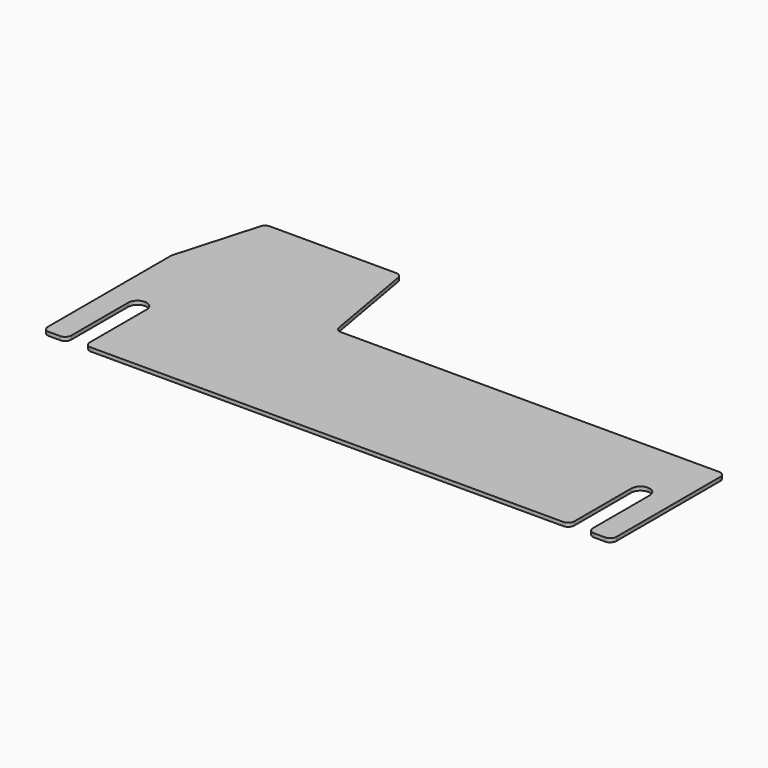
from build123d import *

# Parameters (mm, degrees)
F1_DEPTH = 3
F2_R     = 5


with BuildPart() as f1:
    # F0 (on Top) → F1 (new body)
    with BuildSketch(Plane.XY):
        with BuildLine():
            Line((-100, 200), (-210, 200))
            Line((-210, 200), (-230, 130))
            Line((-230, 130), (-230, 0))
            Line((-230, 0), (-211, 0))
            Line((-211, 0), (-211, 62.5))
            ThreePointArc((-211, 62.5), (-208.803301, 67.803301), (-203.5, 70))
            ThreePointArc((-203.5, 70), (-198.196699, 67.803301), (-196, 62.5))
            Line((-196, 62.5), (-196, 0))
            Line((-196, 0), (196, 0))
            Line((196, 0), (196, 62.5))
            ThreePointArc((196, 62.5), (198.196699, 67.803301), (203.5, 70))
            ThreePointArc((203.5, 70), (208.803301, 67.803301), (211, 62.5))
            Line((211, 62.5), (211, 0))
            Line((211, 0), (230, 0))
            Line((230, 0), (230, 115))
            Line((230, 115), (-85, 115))
            Line((-85, 115), (-100, 200))
        make_face()
    extrude(amount=F1_DEPTH)

    # F2
    f2_edges = [f1.edges().sort_by_distance(p)[0] for p in [
        (-211, 0, 1.5),
        (-196, 0, 1.5),
        (196, 0, 1.5),
        (211, 0, 1.5),
        (-230, 0, 1.5),
        (-230, 130, 1.5),
        (-210, 200, 1.5),
        (-100, 200, 1.5),
        (-85, 115, 1.5),
        (230, 115, 1.5),
        (230, 0, 1.5),
    ]]
    fillet(f2_edges, radius=F2_R)


solid = f1.part
